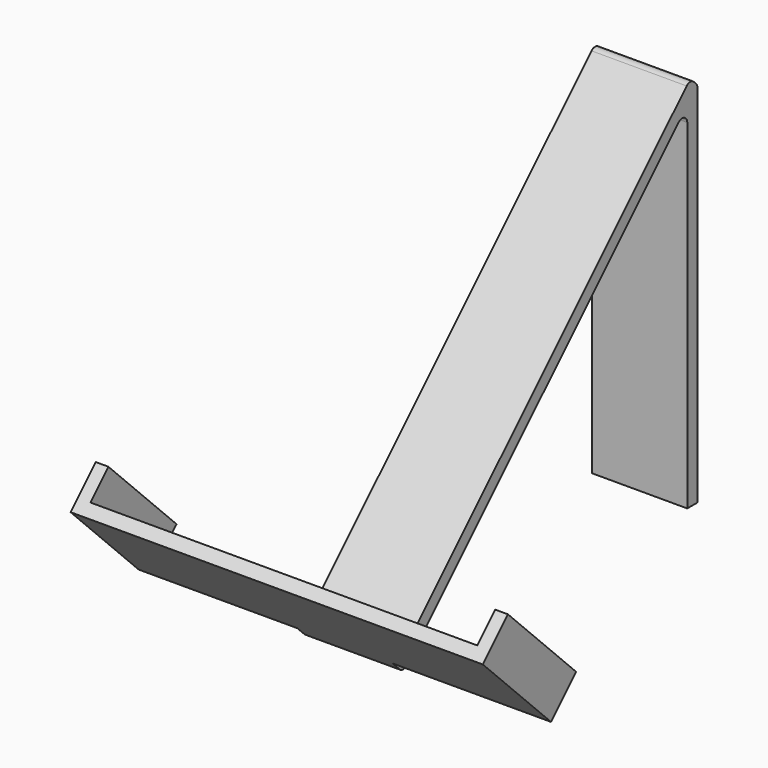
from build123d import *

# Parameters (mm, degrees)
F1_DEPTH  = 15
F2_R      = 1
F3_R      = 1
F4_R      = 1
F6_DEPTH  = 25
F8_DEPTH  = 25
F9_W      = 2
F9_H      = 19
F10_DEPTH = 5


with BuildPart() as f1:
    # F0 (on Right) → F1 (new body)
    with BuildSketch(Plane.YZ):
        Polygon((-24.8861957348, -43.0121933088), (-39.0283313585, -28.8700576851), (-40.4425449209, -30.2842712475), (-24.8861957348, -45.8406204336), (31.0965603225, 10.1421356237), (31.0965603225, -45.8406204336), (33.0965603225, -45.8406204336), (33.0965603225, 12.1421356237), (31.6823467601, 13.5563491861), align=None)
    extrude(amount=F1_DEPTH)

    # F2
    f2_edges = [f1.edges().sort_by_distance(p)[0] for p in [
        (7.5, -24.886196, -43.012193),
    ]]
    fillet(f2_edges, radius=F2_R)

    # F3
    f3_edges = [f1.edges().sort_by_distance(p)[0] for p in [
        (7.5, 31.09656, 10.142136),
    ]]
    fillet(f3_edges, radius=F3_R)

    # F4
    f4_edges = [f1.edges().sort_by_distance(p)[0] for p in [
        (7.5, -24.886196, -45.84062),
        (7.5, 31.682347, 13.556349),
        (7.5, 33.09656, 12.142136),
    ]]
    fillet(f4_edges, radius=F4_R)

    # F5 (on face) → F6 (join)
    with BuildSketch(Plane.YZ.offset(15)):
        Polygon((-25.593302516, -42.3050865276), (-39.0283313585, -28.8700576851), (-40.4425449209, -30.2842712475), (-27.0075160784, -43.71930009), align=None)
    extrude(amount=F6_DEPTH)

    # F7 (on face) → F8 (join)
    with BuildSketch(Plane(origin=(0, 0, 0), x_dir=(0, -1, 0), z_dir=(-1, 0, 0))):
        Polygon((40.4425449209, -30.2842712475), (39.0283313585, -28.8700576851), (25.593302516, -42.3050865276), (27.0075160784, -43.71930009), align=None)
    extrude(amount=F8_DEPTH)

    # F9 (on face) → F10 (join)
    with BuildSketch(Plane(origin=(0, -33.9491945218, -33.9491945218), x_dir=(-1, 0, 0), z_dir=(0, 0.7071067812, 0.7071067812))):
        with Locations((24, -2.3170158004)):
            Rectangle(F9_W, F9_H)
        with Locations((-39, -2.3170158004)):
            Rectangle(F9_W, F9_H)
    extrude(amount=F10_DEPTH)


solid = f1.part
